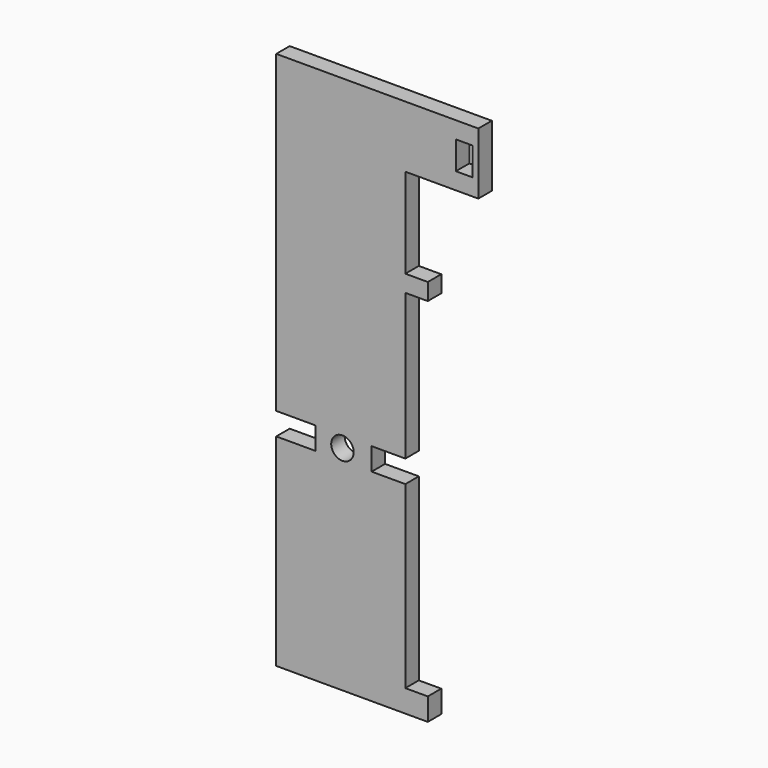
from build123d import *

# Parameters (mm, degrees)
F1_DEPTH = 3
F2_R     = 2
F2_W     = 3
F2_H     = 5
F2_W_2   = 7
F2_H_2   = 4
F3_DEPTH = 25


with BuildPart() as f1:
    # F0 (on Front) → F1 (new body)
    with BuildSketch(Plane.XZ):
        Polygon((20.970293, 38.793614), (-15.029707, 38.793614), (-15.029707, -57.206386), (11.970293, -57.206386), (11.970293, -53.206386), (7.970293, -53.206386), (7.970293, -21.206386), (1.970293, -21.206386), (1.970293, -17.206386), (7.970293, -17.206386), (7.970293, 8.793614), (11.970293, 8.793614), (11.970293, 11.793614), (7.970293, 11.793614), (7.970293, 27.793614), (20.970293, 27.793614), align=None)
    extrude(amount=F1_DEPTH)

    # F2 (on face) → F3 (cut)
    with BuildSketch(Plane.XZ.offset(3)):
        with Locations((-3.233321, -19.206386)):
            Circle(F2_R)
        with Locations((18.470293, 33.293614)):
            Rectangle(F2_W, F2_H)
        with Locations((-11.529707, -19.206386)):
            Rectangle(F2_W_2, F2_H_2)
    extrude(amount=-F3_DEPTH, mode=Mode.SUBTRACT)


solid = f1.part
